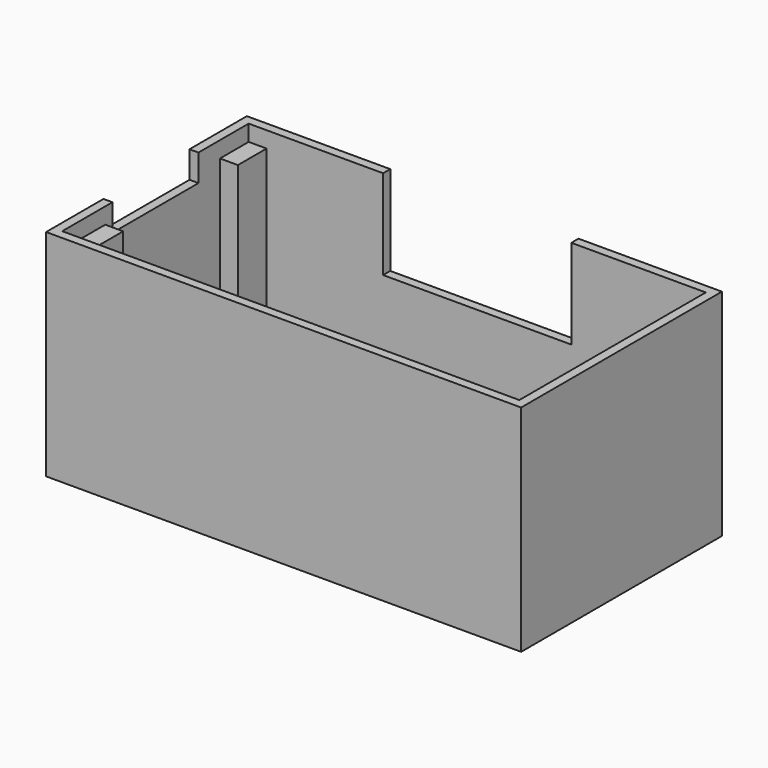
from build123d import *

# Parameters (mm, degrees)
BOX006_W     = 1
BOX006_H     = 12
BOX006_DEPTH = 3
BOX005_W     = 21
BOX005_H     = 1
BOX005_DEPTH = 10
BOX004_W     = 2
BOX004_H     = 26
BOX004_DEPTH = 22.2
BOX002_W     = 2
BOX002_H     = 4
BOX002_DEPTH = 22.2
BOX001_W     = 51
BOX001_H     = 26
BOX001_DEPTH = 24
BOX_W        = 53
BOX_H        = 28
BOX_DEPTH    = 24
BOX003_W     = 2
BOX003_H     = 6
BOX003_DEPTH = 22.2


with BuildPart() as connectorcutout:
    # Box006 → Box006 (new body)
    with BuildSketch(Plane(origin=(0, 8, 21), x_dir=(1, 0, 0), z_dir=(0, 0, 1))):
        with Locations((0.5, 6)):
            Rectangle(BOX006_W, BOX006_H)
    extrude(amount=BOX006_DEPTH)


with BuildPart() as cube:
    # Box005 → Box005 (new body)
    with BuildSketch(Plane(origin=(16, 27, 14), x_dir=(1, 0, 0), z_dir=(0, 0, 1))):
        with Locations((10.5, 0.5)):
            Rectangle(BOX005_W, BOX005_H)
    extrude(amount=BOX005_DEPTH)


with BuildPart() as rightsupport:
    # Box004 → Box004 (new body)
    with BuildSketch(Plane(origin=(50, 1, 0), x_dir=(1, 0, 0), z_dir=(0, 0, 1))):
        with Locations((1, 13)):
            Rectangle(BOX004_W, BOX004_H)
    extrude(amount=BOX004_DEPTH)


with BuildPart() as topleftsupport:
    # Box002 → Box002 (new body)
    with BuildSketch(Plane(origin=(1, 23, 0), x_dir=(1, 0, 0), z_dir=(0, 0, 1))):
        with Locations((1, 2)):
            Rectangle(BOX002_W, BOX002_H)
    extrude(amount=BOX002_DEPTH)


with BuildPart() as inside:
    # Box001 → Box001 (new body)
    with BuildSketch(Plane(origin=(1, 1, 0), x_dir=(1, 0, 0), z_dir=(0, 0, 1))):
        with Locations((25.5, 13)):
            Rectangle(BOX001_W, BOX001_H)
    extrude(amount=BOX001_DEPTH)


with BuildPart() as fusion:
    # Box → Box (new body)
    with BuildSketch(Plane.XY):
        with Locations((26.5, 14)):
            Rectangle(BOX_W, BOX_H)
    extrude(amount=BOX_DEPTH)

    # Cut: cut Inside
    add(inside.part, mode=Mode.SUBTRACT)

    # Fusion: union topleftsupport
    add(topleftsupport.part)


with BuildPart() as cut002:
    # Box003 → Box003 (new body)
    with BuildSketch(Plane(origin=(1, 1, 0), x_dir=(1, 0, 0), z_dir=(0, 0, 1))):
        with Locations((1, 3)):
            Rectangle(BOX003_W, BOX003_H)
    extrude(amount=BOX003_DEPTH)

    # Fusion001: union Fusion
    add(fusion.part)

    # Fusion002: union rightsupport
    add(rightsupport.part)

    # Cut001: cut Cube
    add(cube.part, mode=Mode.SUBTRACT)

    # Cut002: cut ConnectorCutout
    add(connectorcutout.part, mode=Mode.SUBTRACT)


solid = cut002.part
